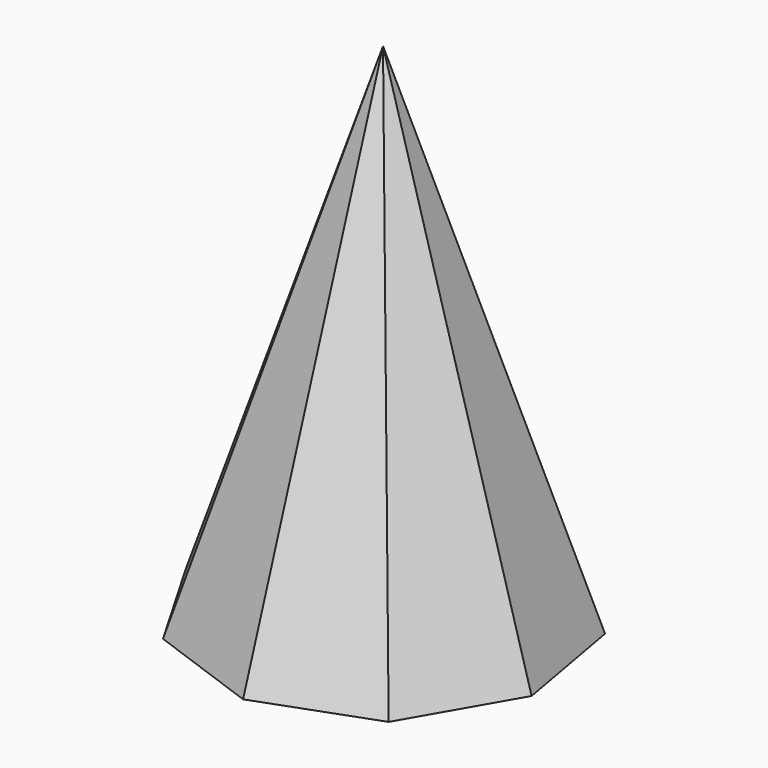
from build123d import *


with BuildPart() as f3:
    # F0 (on Top) → F3 section 0
    with BuildSketch(Plane.XY, mode=Mode.PRIVATE) as f3_s0:
        Polygon((-19.985979, 54.629394), (-50.425246, 29.001804), (-57.26998, -10.196053), (-37.317454, -44.623063), (0.096324, -58.170446), (37.465031, -44.499231), (57.303433, -10.006331), (50.328922, 29.168642), (19.804949, 54.695284), align=None)
    loft([Vertex(0, 0, 167.132), f3_s0.sketch])


solid = f3.part
